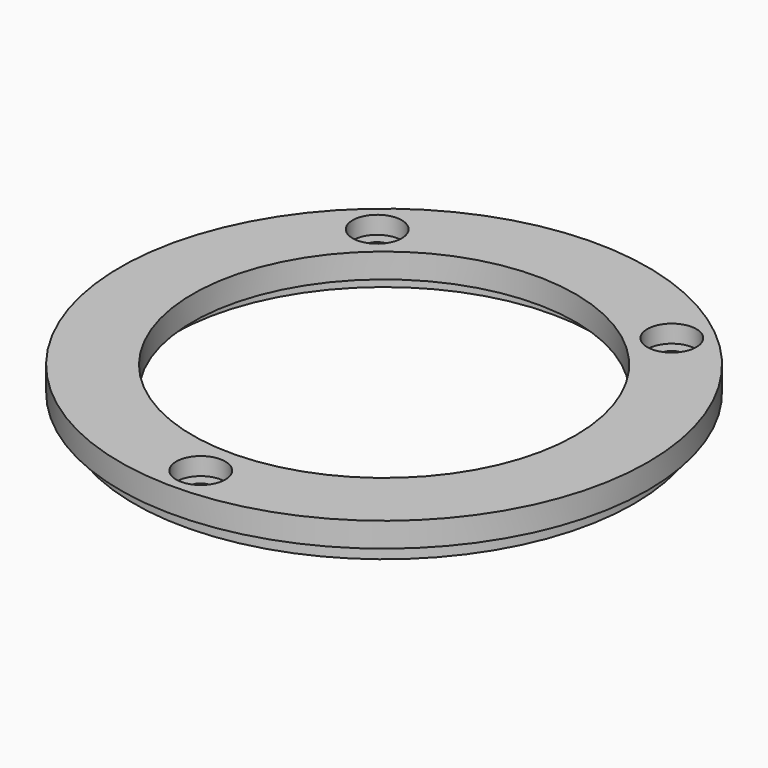
from build123d import *

# Parameters (mm, degrees)
SKETCH018_R     = 32.316823
SKETCH018_R_2   = 27.236823
PAD008_DEPTH    = 2.159
SKETCH019_R     = 34.145623
SKETCH019_R_2   = 24.765
PAD009_DEPTH    = 3.175
SKETCH020_R     = 1.5875
POCKET006_DEPTH = 5.335
SKETCH021_R     = 3.175
POCKET007_DEPTH = 2.286


with BuildPart() as part:
    # Sketch018 (on Face1 of Binder011) → Pad008 (new body)
    with BuildSketch(Plane.XY.offset(-41.598449)):
        with Locations((-1.75, 0)):
            Circle(SKETCH018_R)
        with Locations((-1.75, 0)):
            Circle(SKETCH018_R_2, mode=Mode.SUBTRACT)
    extrude(amount=PAD008_DEPTH)

    # Sketch019 (on Face3 of Pad008) → Pad009 (join)
    with BuildSketch(Plane.XY.offset(-39.439449)):
        with Locations((-1.75, 0)):
            Circle(SKETCH019_R)
        with Locations((-1.75, 0)):
            Circle(SKETCH019_R_2, mode=Mode.SUBTRACT)
    extrude(amount=PAD009_DEPTH)

    # Sketch020 (on Face6 of Pad009) → Pocket006 (cut, through all)
    with BuildSketch(Plane.XY.offset(-36.264449)):
        with Locations((-1.75, -29.645623)):
            Circle(SKETCH020_R)
        with Locations((17.305839, 22.709864)):
            Circle(SKETCH020_R)
        with Locations((-20.805839, 22.709864)):
            Circle(SKETCH020_R)
    extrude(amount=-POCKET006_DEPTH, mode=Mode.SUBTRACT)

    # Sketch021 (on Face9 of Pocket006) → Pocket007 (cut)
    with BuildSketch(Plane.XY.offset(-36.264449)):
        with Locations((-20.805839, 22.709864)):
            Circle(SKETCH021_R)
        with Locations((17.305839, 22.709864)):
            Circle(SKETCH021_R)
        with Locations((-1.75, -29.645623)):
            Circle(SKETCH021_R)
    extrude(amount=-POCKET007_DEPTH, mode=Mode.SUBTRACT)


solid = part.part
